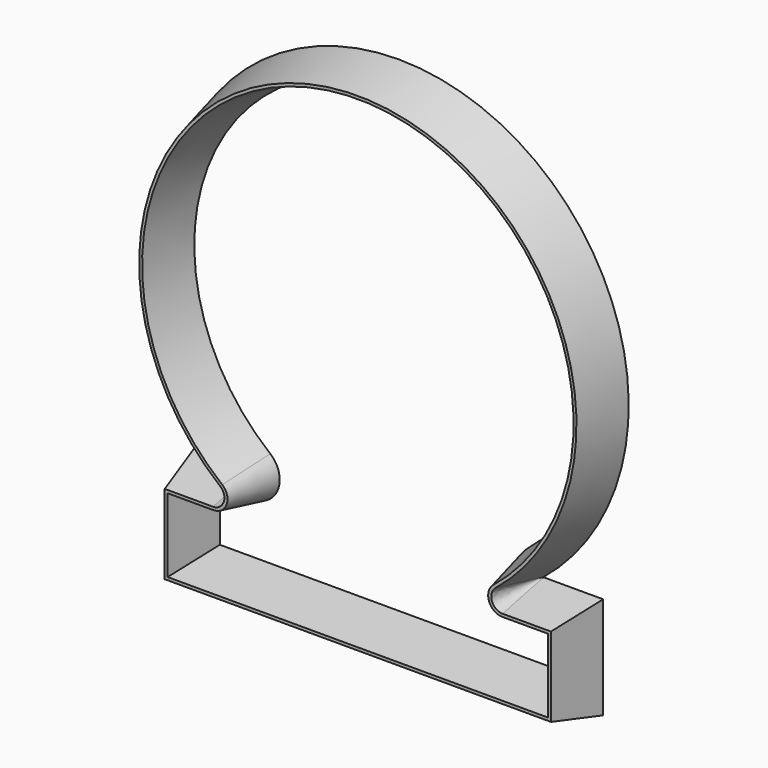
from build123d import *

# Parameters (mm, degrees)
F1_DEPTH = 12.7
F1_TAPER = 12.5


with BuildPart() as f1:
    # F0 (on Front) → F1 (new body)
    with BuildSketch(Plane.XZ):
        with BuildLine():
            Line((50.8, -44.45), (35.9927948345, -44.45))
            ThreePointArc((35.9927948345, -44.45), (35.9688528047, -44.4330816985), (35.9768051433, -44.4048645047))
            ThreePointArc((35.9768051433, -44.4048645047), (0, 57.15), (-35.9768051433, -44.4048645047))
            ThreePointArc((-35.9768051433, -44.4048645047), (-35.9688528047, -44.4330816985), (-35.9927948345, -44.45))
            Line((-35.9927948345, -44.45), (-50.8, -44.45))
            Line((-50.8, -44.45), (-50.8, -69.85))
            Line((-50.8, -69.85), (50.8, -69.85))
            Line((50.8, -69.85), (50.8, -44.45))
        make_face()
        with BuildLine():
            ThreePointArc((-31.9297995416, -39.5111111111), (0, 50.8), (31.9297995416, -39.5111111111))
            ThreePointArc((31.9297995416, -39.5111111111), (29.9341870702, -46.5666666667), (35.9210244843, -50.8))
            Line((35.9210244843, -50.8), (44.45, -50.8))
            Line((44.45, -50.8), (44.45, -63.5))
            Line((44.45, -63.5), (-44.45, -63.5))
            Line((-44.45, -63.5), (-44.45, -50.8))
            Line((-44.45, -50.8), (-35.9210244843, -50.8))
            ThreePointArc((-35.9210244843, -50.8), (-29.9341870702, -46.5666666667), (-31.9297995416, -39.5111111111))
        make_face(mode=Mode.SUBTRACT)
    extrude(amount=F1_DEPTH, taper=F1_TAPER)


solid = f1.part
